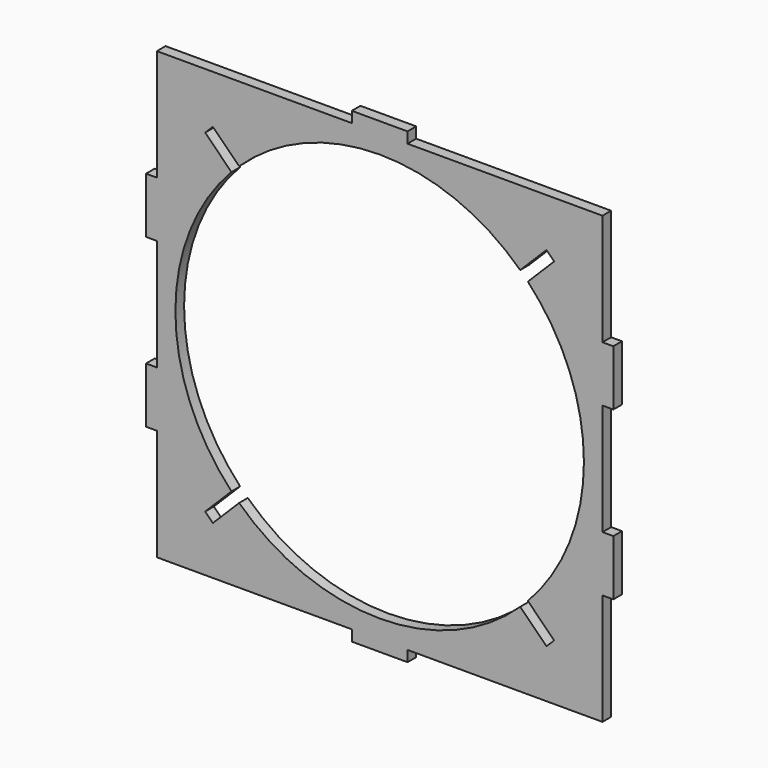
from build123d import *

# Parameters (mm, degrees)
F2_DEPTH = 2.92


with BuildPart() as f2:
    # F1 (on Front) → F2 (new body)
    with BuildSketch(Plane.XZ):
        Polygon((-7.5, 60), (-60, 60), (-60, 30), (-62.92, 30), (-62.92, 15), (-60, 15), (-60, 0), (-60, -15), (-62.92, -15), (-62.92, -30), (-60, -30), (-60, -60), (-7.5, -60), (-7.5, -62.92), (7.5, -62.92), (7.5, -60), (60, -60), (60, -30), (62.92, -30), (62.92, -15), (60, -15), (60, 0), (60, 15), (62.92, 15), (62.92, 30), (60, 30), (60, 60), (7.5, 60), (7.5, 62.92), (-7.5, 62.92), align=None)
        with BuildLine():
            ThreePointArc((-39.9095440073, -37.8447922062), (-55, 0), (-39.9095440073, 37.8447922062))
            Line((-39.9095440073, 37.8447922062), (-46.9806118191, 44.9158600181))
            Line((-46.9806118191, 44.9158600181), (-44.9158600181, 46.9806118191))
            Line((-44.9158600181, 46.9806118191), (-37.8447922062, 39.9095440073))
            ThreePointArc((-37.8447922062, 39.9095440073), (0, 55), (37.8447922062, 39.9095440073))
            Line((37.8447922062, 39.9095440073), (44.9158600181, 46.9806118191))
            Line((44.9158600181, 46.9806118191), (46.9806118191, 44.9158600181))
            Line((46.9806118191, 44.9158600181), (39.9095440073, 37.8447922062))
            ThreePointArc((39.9095440073, 37.8447922062), (55, 0), (39.9095440073, -37.8447922062))
            Line((39.9095440073, -37.8447922062), (46.9806118191, -44.9158600181))
            Line((46.9806118191, -44.9158600181), (44.9158600181, -46.9806118191))
            Line((44.9158600181, -46.9806118191), (37.8447922062, -39.9095440073))
            ThreePointArc((37.8447922062, -39.9095440073), (0, -55), (-37.8447922062, -39.9095440073))
            Line((-37.8447922062, -39.9095440073), (-44.9158600181, -46.9806118191))
            Line((-44.9158600181, -46.9806118191), (-46.9806118191, -44.9158600181))
            Line((-46.9806118191, -44.9158600181), (-39.9095440073, -37.8447922062))
        make_face(mode=Mode.SUBTRACT)
    extrude(amount=F2_DEPTH)


solid = f2.part
